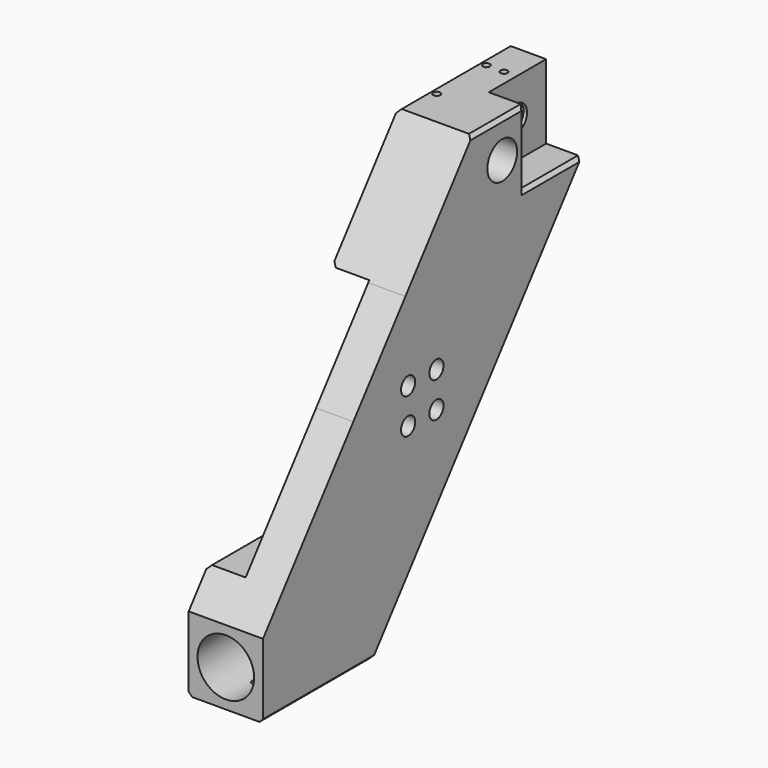
from build123d import *

# Parameters (mm, degrees)
F0_R      = 10.5
F1_DEPTH  = 42
F2_R      = 5
F2_R_2    = 3.5
F3_DEPTH  = 10
F4_W      = 40.5
F4_H      = 42
F4_R      = 7.5
F5_DEPTH  = 20
F6_R      = 3.5
F7_DEPTH  = 21
F8_R      = 16
F9_DEPTH  = 150
F10_SIZE  = 2
F11_R     = 2
F12_DEPTH = 25
F13_R     = 2
F14_DEPTH = 25
F15_R     = 16
F15_R_2   = 7.5
F16_DEPTH = 20


with BuildPart() as f1:
    # F0 (on Right) → F1 (new body)
    with BuildSketch(Plane.YZ):
        Polygon((-20.6668798583, -21.3465905736), (-48.7248089568, 7.8459214502), (-112.5, -74.2), (-112.5, -116.2), align=None)
        Polygon((-35.5, -116.2), (11.8957703927, -55.2259818731), (-20.6668798583, -21.3465905736), (-112.5, -116.2), align=None)
        with BuildLine():
            Line((-12.2649513369, 12.6683319586), (-30.4089327146, 31.4090487239))
            Line((-30.4089327146, 31.4090487239), (-48.7248089568, 7.8459214502))
            Line((-48.7248089568, 7.8459214502), (-20.6668798583, -21.3465905736))
            Line((-20.6668798583, -21.3465905736), (-12.2649513369, -12.6683319586))
            ThreePointArc((-12.2649513369, -12.6683319586), (-12.5145841676, -7.5654843472), (-7.4063318963, -7.6499179231))
            Line((-7.4063318963, -7.6499179231), (0, 0))
            Line((0, 0), (-7.4063318963, 7.6499179231))
            ThreePointArc((-7.4063318963, 7.6499179231), (-12.5145841676, 7.5654843472), (-12.2649513369, 12.6683319586))
        make_face()
        with BuildLine():
            Line((11.8957703927, -55.2259818731), (30.4089327146, -31.4090487239))
            Line((30.4089327146, -31.4090487239), (12.2649513369, -12.6683319586))
            ThreePointArc((12.2649513369, -12.6683319586), (7.4854158324, -12.4345156528), (7.4063318963, -7.6499179231))
            Line((7.4063318963, -7.6499179231), (0, 0))
            Line((0, 0), (-7.4063318963, -7.6499179231))
            ThreePointArc((-7.4063318963, -7.6499179231), (-6.7344343244, -8.7406029941), (-6.5, -10))
            ThreePointArc((-6.5, -10), (-8.5298519937, -13.1762658641), (-12.2649513369, -12.6683319586))
            Line((-12.2649513369, -12.6683319586), (-20.6668798583, -21.3465905736))
            Line((-20.6668798583, -21.3465905736), (11.8957703927, -55.2259818731))
        make_face()
        with BuildLine():
            Line((20.6668798583, 21.3465905736), (-11.8957703927, 55.2259818731))
            Line((-11.8957703927, 55.2259818731), (-30.4089327146, 31.4090487239))
            Line((-30.4089327146, 31.4090487239), (-12.2649513369, 12.6683319586))
            ThreePointArc((-12.2649513369, 12.6683319586), (-8.5298519937, 13.1762658641), (-6.5, 10))
            ThreePointArc((-6.5, 10), (-6.7344343244, 8.7406029941), (-7.4063318963, 7.6499179231))
            Line((-7.4063318963, 7.6499179231), (0, 0))
            Line((0, 0), (7.4063318963, 7.6499179231))
            ThreePointArc((7.4063318963, 7.6499179231), (7.4854158324, 12.4345156528), (12.2649513369, 12.6683319586))
            Line((12.2649513369, 12.6683319586), (20.6668798583, 21.3465905736))
        make_face()
        with BuildLine():
            Line((30.4089327146, -31.4090487239), (48.7248089568, -7.8459214502))
            Line((48.7248089568, -7.8459214502), (20.6668798583, 21.3465905736))
            Line((20.6668798583, 21.3465905736), (12.2649513369, 12.6683319586))
            ThreePointArc((12.2649513369, 12.6683319586), (13.1762658641, 11.4701480063), (13.5, 10))
            ThreePointArc((13.5, 10), (11.2593970059, 6.7344343244), (7.4063318963, 7.6499179231))
            Line((7.4063318963, 7.6499179231), (0, 0))
            Line((0, 0), (7.4063318963, -7.6499179231))
            ThreePointArc((7.4063318963, -7.6499179231), (11.2593970059, -6.7344343244), (13.5, -10))
            ThreePointArc((13.5, -10), (13.1762658641, -11.4701480063), (12.2649513369, -12.6683319586))
            Line((12.2649513369, -12.6683319586), (30.4089327146, -31.4090487239))
        make_face()
        with BuildLine():
            Line((112.5, 74.2), (112.5, 116.2))
            Line((112.5, 116.2), (97.0512585066, 100.2431665641))
            ThreePointArc((97.0512585066, 100.2431665641), (98.4958715968, 97.9032906985), (99, 95.2))
            ThreePointArc((99, 95.2), (94.6458584105, 88.391654029), (86.6390467037, 89.4885086842))
            Line((86.6390467037, 89.4885086842), (20.6668798583, 21.3465905736))
            Line((20.6668798583, 21.3465905736), (48.7248089568, -7.8459214502))
            Line((48.7248089568, -7.8459214502), (112.5, 74.2))
        make_face()
        with BuildLine():
            Line((97.0512585066, 100.2431665641), (112.5, 116.2))
            Line((112.5, 116.2), (35.5, 116.2))
            Line((35.5, 116.2), (-11.8957703927, 55.2259818731))
            Line((-11.8957703927, 55.2259818731), (20.6668798583, 21.3465905736))
            Line((20.6668798583, 21.3465905736), (86.6390467037, 89.4885086842))
            ThreePointArc((86.6390467037, 89.4885086842), (86.1116053551, 100.4168192561), (97.0512585066, 100.2431665641))
        make_face()
        with Locations((56.5, 95.2)):
            Circle(F0_R, mode=Mode.SUBTRACT)
    extrude(amount=F1_DEPTH)

    # F2 (on face) → F3 (cut)
    with BuildSketch(Plane.YZ.offset(42)):
        with Locations((10, -10)):
            Circle(F2_R)
        with Locations((10, -10)):
            Circle(F2_R_2, mode=Mode.SUBTRACT)
        with Locations((-10, -10)):
            Circle(F2_R)
        with Locations((-10, -10)):
            Circle(F2_R_2, mode=Mode.SUBTRACT)
        with Locations((-10, 10)):
            Circle(F2_R)
        with Locations((-10, 10)):
            Circle(F2_R_2, mode=Mode.SUBTRACT)
        with Locations((10, 10)):
            Circle(F2_R)
        with Locations((10, 10)):
            Circle(F2_R_2, mode=Mode.SUBTRACT)
    extrude(amount=-F3_DEPTH, mode=Mode.SUBTRACT)

    # F4 (on face) → F5 (cut)
    with BuildSketch(Plane.YZ.offset(42)):
        with Locations((92.25, 95.2)):
            Rectangle(F4_W, F4_H)
        with Locations((91.5, 95.2)):
            Circle(F4_R, mode=Mode.SUBTRACT)
    extrude(amount=-F5_DEPTH, mode=Mode.SUBTRACT)

    # F6 (on face) → F7 (cut)
    with BuildSketch(Plane(origin=(0, 0, 0), x_dir=(0, -1, 0), z_dir=(-1, 0, 0))):
        Polygon((11.1386554622, 56.2), (-98.5084033613, 56.2), (-11.1386554622, -56.2), (98.5084033613, -56.2), align=None)
        with Locations((-10, -10)):
            Circle(F6_R, mode=Mode.SUBTRACT)
        with Locations((10, -10)):
            Circle(F6_R, mode=Mode.SUBTRACT)
        with Locations((-10, 10)):
            Circle(F6_R, mode=Mode.SUBTRACT)
        with Locations((10, 10)):
            Circle(F6_R, mode=Mode.SUBTRACT)
    extrude(amount=-F7_DEPTH, mode=Mode.SUBTRACT)

    # F8 (on face) → F9 (cut)
    with BuildSketch(Plane.XZ.offset(112.5)):
        with Locations((21, -95.2)):
            Circle(F8_R)
    extrude(amount=-F9_DEPTH, mode=Mode.SUBTRACT)

    # F10
    f10_edges = [f1.edges().sort_by_distance(p)[0] for p in [
        (42, -74, -116.2),
        (42, 92.25, 74.2),
        (42, 72, 95.2),
        (42, 53.75, 116.2),
        (0, -74, -116.2),
        (0, -43.684874, -56.2),
        (0, 43.684874, 56.2),
        (0, 74, 116.2),
    ]]
    chamfer(f10_edges, length=F10_SIZE)

    # F11 (on face) → F12 (cut)
    with BuildSketch(Plane(origin=(0, 0, -116.2), x_dir=(1, 0, 0), z_dir=(0, 0, -1))):
        with Locations((21, 50.5)):
            Circle(F11_R)
        with Locations((21, 91.5)):
            Circle(F11_R)
    extrude(amount=-F12_DEPTH, mode=Mode.SUBTRACT)

    # F13 (on face) → F14 (cut)
    with BuildSketch(Plane.XY.offset(116.2)):
        with Locations((5, 56.5)):
            Circle(F13_R)
        with Locations((15, 91.5)):
            Circle(F13_R)
        with Locations((5, 91.5)):
            Circle(F13_R)
    extrude(amount=-F14_DEPTH, mode=Mode.SUBTRACT)

    # F15 (on face) → F16 (cut)
    with BuildSketch(Plane(origin=(0, 0, 0), x_dir=(0, -1, 0), z_dir=(-1, 0, 0))):
        with Locations((-91.5, 95.2)):
            Circle(F15_R)
        with Locations((-91.5, 95.2)):
            Circle(F15_R_2, mode=Mode.SUBTRACT)
    extrude(amount=-F16_DEPTH, mode=Mode.SUBTRACT)


solid = f1.part
